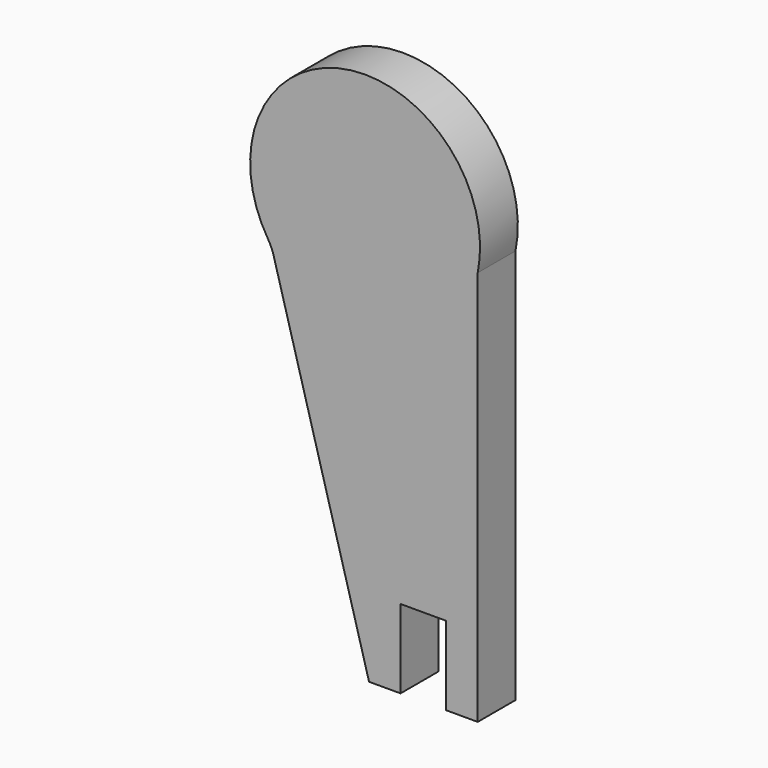
from build123d import *

# Parameters (mm, degrees)
F2_DEPTH = 3


with BuildPart() as f2:
    # F0 (on Front) → F2 (new body)
    with BuildSketch(Plane.XZ):
        with BuildLine():
            ThreePointArc((-19.628222, 22.662078), (-19.420827, 22.273896), (-19.272457, 21.859547))
            Line((-19.272457, 21.859547), (-13.212385, 0))
            Line((-13.212385, 0), (-11.212385, 0))
            Line((-11.212385, 0), (-11.212385, 5))
            Line((-11.212385, 5), (-8.312385, 5))
            Line((-8.312385, 5), (-8.312385, 0))
            Line((-8.312385, 0), (-6.312385, 0))
            Line((-6.312385, 0), (-6.312385, 25.104012))
            ThreePointArc((-6.312385, 25.104012), (-14.778052, 33.740675), (-19.628222, 22.662078))
        make_face()
    extrude(amount=F2_DEPTH)


solid = f2.part
